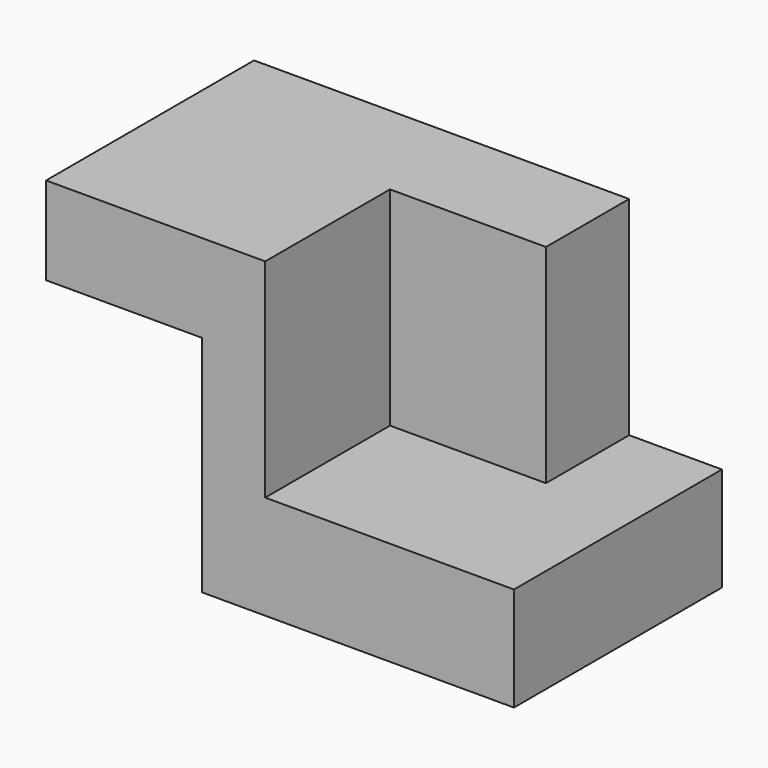
from build123d import *

# Parameters (mm, degrees)
F0_W     = 76.2
F0_H     = 63.5
F1_DEPTH = 25.4
F3_DEPTH = 50.8
F4_W     = 63.5
F4_H     = 21.465122
F5_DEPTH = 38.1


with BuildPart() as f1:
    # F0 (on Top) → F1 (new body)
    with BuildSketch(Plane.XY):
        with Locations((8.671692, -5.987014)):
            Rectangle(F0_W, F0_H)
    extrude(amount=F1_DEPTH)

    # F2 (on face) → F3 (join)
    with BuildSketch(Plane.XY.offset(25.4)):
        Polygon((-29.428308, -37.737014), (-13.991789, -37.737014), (-13.991789, 0.362986), (24.108211, 0.362986), (24.108211, 25.762986), (-29.428308, 25.762986), align=None)
    extrude(amount=F3_DEPTH)

    # F4 (on face) → F5 (join)
    with BuildSketch(Plane(origin=(-29.428308, 0, 0), x_dir=(0, -1, 0), z_dir=(-1, 0, 0))):
        with Locations((5.987014, 65.467439)):
            Rectangle(F4_W, F4_H)
    extrude(amount=F5_DEPTH)


solid = f1.part
